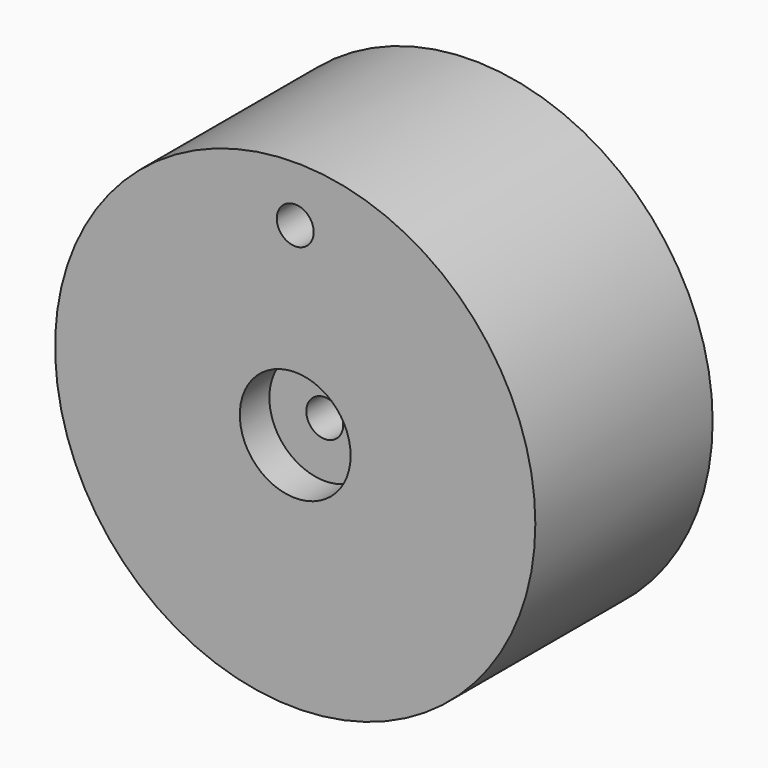
from build123d import *

# Parameters (mm, degrees)
F0_R     = 41.275
F0_R_2   = 3.175
F1_DEPTH = 38.1
F2_R     = 3.175
F3_DEPTH = 38.101
F4_R     = 9.525
F4_R_2   = 3.175
F5_DEPTH = 6.35
F6_R     = 9.525
F7_DEPTH = 6.35


with BuildPart() as f1:
    # F0 (on Front) → F1 (new body)
    with BuildSketch(Plane.XZ):
        Circle(F0_R)
        Circle(F0_R_2, mode=Mode.SUBTRACT)
    extrude(amount=F1_DEPTH)

    # F2 (on face) → F3 (cut, through all)
    with BuildSketch(Plane.XZ.offset(38.1)):
        with Locations((0, 31.75)):
            Circle(F2_R)
    extrude(amount=-F3_DEPTH, mode=Mode.SUBTRACT)

    # F4 (on face) → F5 (cut)
    with BuildSketch(Plane(origin=(0, 0, 0), x_dir=(-1, 0, 0), z_dir=(0, 1, 0))):
        Circle(F4_R)
        Circle(F4_R_2, mode=Mode.SUBTRACT)
    extrude(amount=-F5_DEPTH, mode=Mode.SUBTRACT)

    # F6 (on face) → F7 (cut)
    with BuildSketch(Plane.XZ.offset(38.1)):
        Circle(F6_R)
    extrude(amount=-F7_DEPTH, mode=Mode.SUBTRACT)


solid = f1.part
